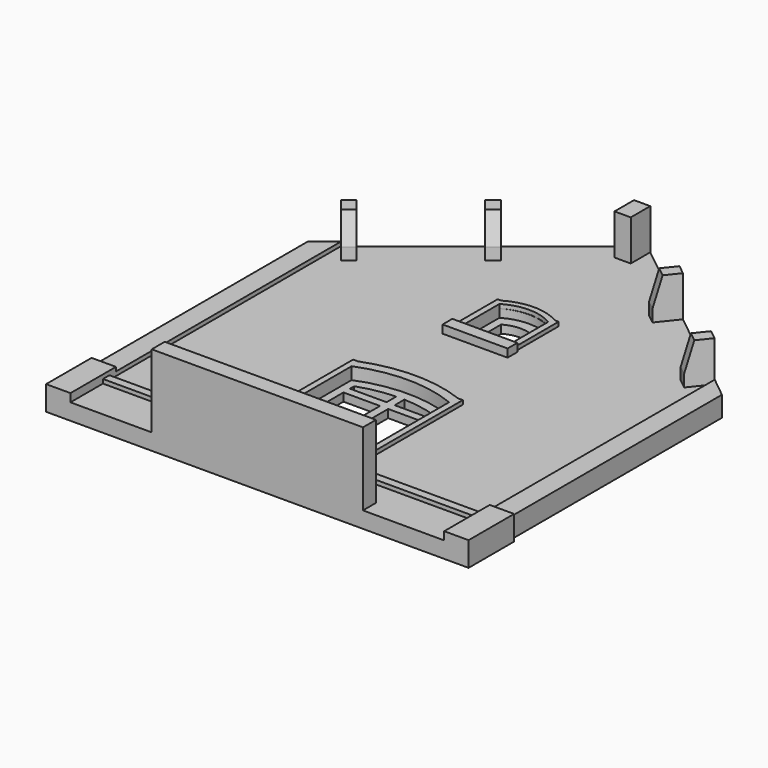
from build123d import *

# Parameters (mm, degrees)
PAD_DEPTH       = 2
POCKET_DEPTH    = 1
SKETCH002_W     = 4.5
SKETCH002_H     = 11.5
POCKET001_DEPTH = 5
SKETCH003_W     = 8
SKETCH003_H     = 1.5
PAD001_DEPTH    = 1
SKETCH004_W     = 26
SKETCH004_H     = 2
PAD002_DEPTH    = 9
SKETCH005_W     = 20
SKETCH005_H     = 2
PAD003_DEPTH    = 6
SKETCH006_W     = 3
SKETCH006_H     = 7
PAD004_DEPTH    = 3
PAD005_DEPTH    = 2.5
SKETCH008_W     = 17
SKETCH008_H     = 1
PAD006_DEPTH    = 0.5
PAD008_DEPTH    = 0.5
SKETCH013_W     = 2.0000000001
SKETCH013_H     = 3
PAD009_DEPTH    = 5
POCKET002_DEPTH = 20
POCKET003_DEPTH = 20


with BuildPart() as part:
    # Sketch → Pad (new body)
    with BuildSketch(Plane.XY):
        Polygon((-25, -20), (25, -20), (25, 20), (0, 40), (-25, 20), align=None)
    extrude(amount=PAD_DEPTH)

    # Sketch001 → Pocket (cut)
    with BuildSketch(Plane.XY.offset(2)):
        with BuildLine():
            Line((-3, 15), (3, 15))
            Line((3, 15), (3, 21))
            ThreePointArc((3, 21), (0, 21.8038475773), (-3, 21))
            Line((-3, 15), (-3, 21))
        make_face()
        with BuildLine():
            Line((-6, -16), (6, -16))
            Line((6, -16), (6, 2))
            ThreePointArc((6, 2), (0, 3.1676030258), (-6, 2))
            Line((-6, -16), (-6, 2))
        make_face()
    extrude(amount=-POCKET_DEPTH, mode=Mode.SUBTRACT)

    # Sketch002 → Pocket001 (cut)
    with BuildSketch(Plane.XY.offset(1)):
        with BuildLine():
            Line((-2, 16), (2, 16))
            Line((2, 16), (2, 20))
            ThreePointArc((2, 20), (0, 20.5358983849), (-2, 20))
            Line((-2, 16), (-2, 20))
        make_face()
        with Locations((-2.75, -6.25)):
            Rectangle(SKETCH002_W, SKETCH002_H)
        with Locations((2.75, -6.25)):
            Rectangle(SKETCH002_W, SKETCH002_H)
        with BuildLine():
            Line((-5, 0.5), (-0.5, 0.5))
            Line((-0.5, 0.5), (-0.5, 2))
            ThreePointArc((-0.5, 2), (-2.7826111414, 1.7479786314), (-5, 1.1504712732))
            Line((-5, 0.5), (-5, 1.1504712732))
        make_face()
        with BuildLine():
            Line((0.5, 0.5), (5, 0.5))
            Line((5, 0.5), (5, 1.1504712732))
            ThreePointArc((5, 1.1504712732), (2.7826111414, 1.7479786314), (0.5, 2))
            Line((0.5, 0.5), (0.5, 2))
        make_face()
    extrude(amount=-POCKET001_DEPTH, mode=Mode.SUBTRACT)

    # Sketch003 → Pad001 (new body)
    with BuildSketch(Plane.XY.offset(2)):
        with Locations((0, 14.25)):
            Rectangle(SKETCH003_W, SKETCH003_H)
    extrude(amount=PAD001_DEPTH)

    # Sketch004 → Pad002 (new body)
    with BuildSketch(Plane.XY.offset(2)):
        with Locations((0, -19)):
            Rectangle(SKETCH004_W, SKETCH004_H)
    extrude(amount=PAD002_DEPTH)

    # Sketch005 → Pad003 (new body)
    with BuildSketch(Plane.XY.offset(2)):
        with Locations((0, -17)):
            Rectangle(SKETCH005_W, SKETCH005_H)
    extrude(amount=PAD003_DEPTH)

    # Sketch006 → Pad004 (new body)
    with BuildSketch(Plane(origin=(0, 0, 0), x_dir=(1, 0, 0), z_dir=(0, 0, -1))):
        with Locations((-24.5, 16.5)):
            Rectangle(SKETCH006_W, SKETCH006_H)
        with Locations((24.5, 16.5)):
            Rectangle(SKETCH006_W, SKETCH006_H)
    extrude(amount=-PAD004_DEPTH)

    # Sketch007 → Pad005 (new body)
    with BuildSketch(Plane(origin=(0, 0, 0), x_dir=(1, 0, 0), z_dir=(0, 0, -1))):
        Polygon((-25.5, 20), (-23, 20), (-23, -21.624460083), (-25.5, -19.6), align=None)
        Polygon((23, 20), (25.5, 20), (25.5, -19.6), (23, -21.624460083), align=None)
    extrude(amount=-PAD005_DEPTH)

    # Sketch008 → Pad006 (new body)
    with BuildSketch(Plane.XY.offset(2)):
        with Locations((-14.5, -14.5)):
            Rectangle(SKETCH008_W, SKETCH008_H)
        with Locations((14.5, -14.5)):
            Rectangle(SKETCH008_W, SKETCH008_H)
    extrude(amount=PAD006_DEPTH)

    # Sketch012 → Pad008 (new body)
    with BuildSketch(Plane.XY.offset(2)):
        with BuildLine():
            ThreePointArc((3, 21), (0, 21.8309518948), (-3, 21))
            Line((-3, 21), (-3, 15))
            Line((-3.75, 15), (-3, 15))
            Line((-3.75, 21.6561501911), (-3.75, 15))
            Line((-3.3030993045, 21.6561501911), (-3.75, 21.6561501911))
            ThreePointArc((3.3030993045, 21.6561501911), (0, 22.55), (-3.3030993046, 21.6561501911))
            Line((3.3030993045, 21.6561501911), (3.75, 21.6561501911))
            Line((3.75, 21.6561501911), (3.75, 15))
            Line((3.75, 15), (3, 15))
            Line((3, 15), (3, 21))
        make_face()
        with BuildLine():
            Line((-6, 2), (-6, -16))
            Line((-6, -16), (-6.75, -16))
            Line((-6.75, -16), (-6.75, 3.1718383847))
            Line((-6.75, 3.1718383847), (-6.1651012574, 3.1718383847))
            ThreePointArc((6.1651012573, 3.1718383847), (0, 4.3182305052), (-6.1651012574, 3.1718383847))
            Line((6.1651012574, 3.1718383847), (6.75, 3.1718383847))
            Line((6.75, 3.1718383847), (6.75, -16))
            Line((6, -16), (6.75, -16))
            Line((6, -16), (6, 2))
            ThreePointArc((6, 2), (0, 3.1676030258), (-6, 2))
        make_face()
    extrude(amount=PAD008_DEPTH)

    # Sketch013 → Pad009 (new body)
    with BuildSketch(Plane.XY.offset(2)):
        with Locations((0, 37.7)):
            Rectangle(SKETCH013_W, SKETCH013_H)
        Polygon((-11, 31.2), (-9.1259148573, 28.8573935717), (-10.2972180715, 27.9203510003), (-12.1713032142, 30.2629574287), align=None)
        Polygon((-21.8286967858, 22.5370425713), (-19.9546116432, 20.194436143), (-21.1259148573, 19.2573935717), (-23, 21.6), align=None)
        Polygon((19.9546116432, 20.194436143), (21.8286967858, 22.5370425713), (23, 21.6), (21.1259148573, 19.2573935717), align=None)
        Polygon((11, 31.2), (12.1713032142, 30.2629574287), (10.2972180715, 27.9203510003), (9.1259148573, 28.8573935717), align=None)
    extrude(amount=PAD009_DEPTH)

    # Sketch014 → Pocket002 (cut)
    with BuildSketch(Plane(origin=(-3.4878048781, -2.7902439024, 0), x_dir=(0.6246950476, -0.7808688094, 0), z_dir=(-0.7808688094, -0.6246950476, 0))):
        Polygon((-29.2347523777, 7), (-28.2347523777, 7), (-28.2347523777, 3.5), align=None)
    extrude(amount=-POCKET002_DEPTH, mode=Mode.SUBTRACT)

    # Sketch015 → Pocket003 (cut)
    with BuildSketch(Plane(origin=(3.4878048781, -2.7902439024, 0), x_dir=(0.6246950476, 0.7808688094, 0), z_dir=(0.7808688094, -0.6246950476, 0))):
        Polygon((28.2347523777, 7), (28.2347523777, 3.5), (29.2347523777, 7), align=None)
    extrude(amount=-POCKET003_DEPTH, mode=Mode.SUBTRACT)


solid = part.part
